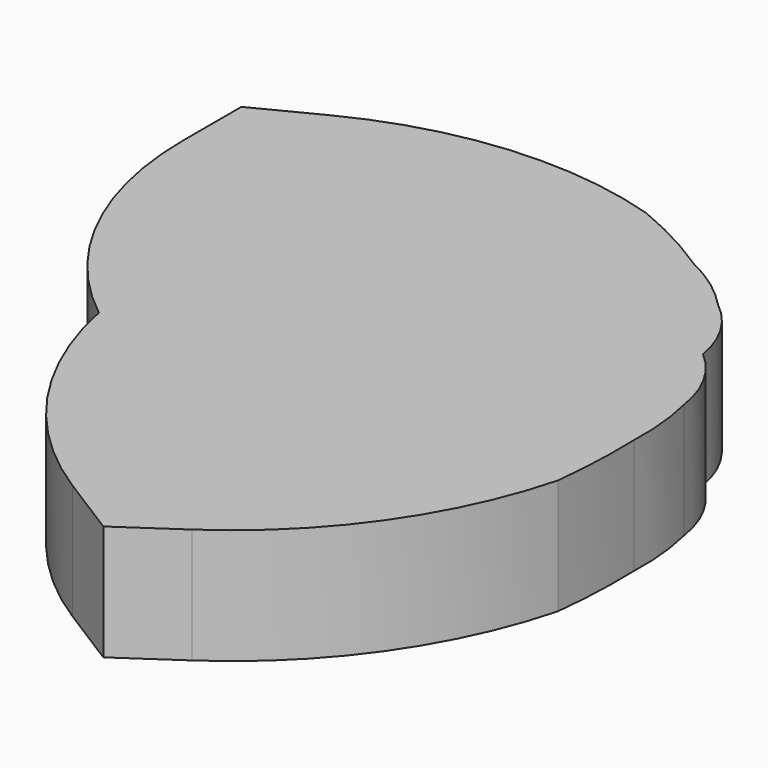
from build123d import *

# Parameters (mm, degrees)
F1_DEPTH = 3.96875


with BuildPart() as f1:
    # F0 (on Top) → F1 (new body)
    with BuildSketch(Plane.XY):
        with BuildLine():
            ThreePointArc((0, 9.117891), (-5.189841, 9.689006), (-10.209356, 8.251961))
            Line((-10.209356, 8.251961), (-12.369341, 7.146457))
            Line((-12.369341, 7.146457), (-12.369341, 4.638605))
            ThreePointArc((-12.369341, 4.638605), (-11.185748, -0.503205), (-7.873208, -4.610051))
            ThreePointArc((-7.873208, -4.610051), (-5.859185, -9.348483), (-2.140938, -12.909897))
            Line((-2.140938, -12.909897), (0, -14.256157))
            Line((0, -14.256157), (1.969674, -12.909897))
            ThreePointArc((1.969674, -12.909897), (5.677324, -9.25383), (7.870408, -4.531132))
            ThreePointArc((7.870408, -4.531132), (7.991351, -2.976852), (7.999619, -1.417896))
            ThreePointArc((7.999619, -1.417896), (7.965459, -0.175208), (7.759527, 1.050775))
            ThreePointArc((7.759527, 1.050775), (7.279377, 2.480974), (6.327746, 3.651619))
            ThreePointArc((6.327746, 3.651619), (5.817408, 5.040304), (4.842658, 6.153296))
            ThreePointArc((4.842658, 6.153296), (3.908213, 6.97687), (2.837203, 7.612792))
            ThreePointArc((2.837203, 7.612792), (1.455709, 8.435292), (0, 9.117891))
        make_face()
    extrude(amount=F1_DEPTH)


solid = f1.part
